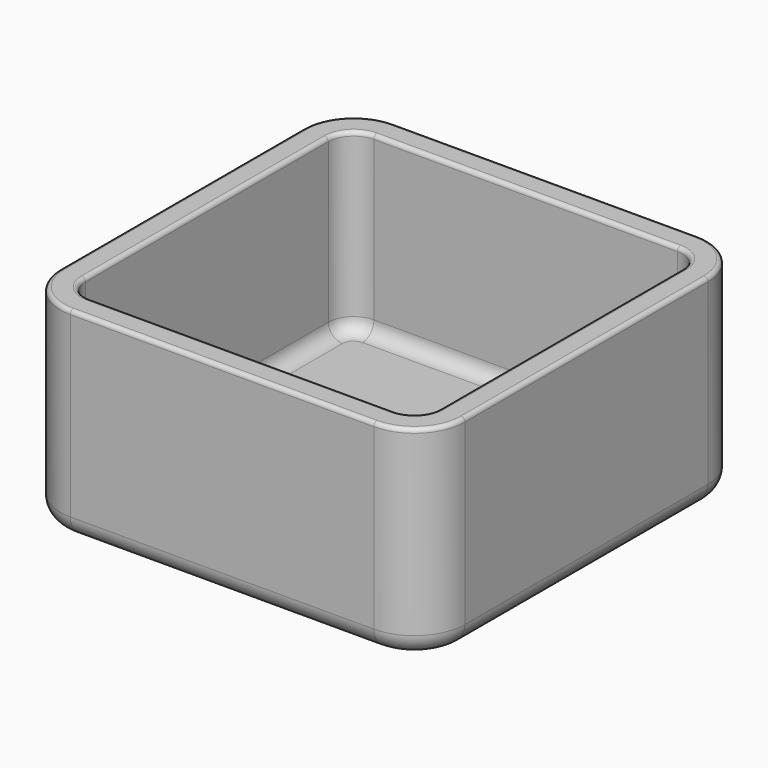
from build123d import *

# Parameters (mm, degrees)
F1_DEPTH = 25.4
F3_DEPTH = 22.225
F4_R     = 2.54
F5_R     = 1.778
F6_R     = 0.508


with BuildPart() as f1:
    # F0 (on Top) → F1 (new body)
    with BuildSketch(Plane.XY):
        with BuildLine():
            ThreePointArc((25.4, 22.2595424831), (23.5401280605, 26.7496705436), (19.05, 28.6095424831))
            Line((19.05, 28.6095424831), (-19.05, 28.6095424831))
            ThreePointArc((-19.05, 28.6095424831), (-23.5401280605, 26.7496705436), (-25.4, 22.2595424831))
            Line((-25.4, 22.2595424831), (-25.4, -15.8404575169))
            ThreePointArc((-25.4, -15.8404575169), (-23.5401280605, -20.3305855774), (-19.05, -22.1904575169))
            Line((-19.05, -22.1904575169), (19.05, -22.1904575169))
            ThreePointArc((19.05, -22.1904575169), (23.5401280605, -20.3305855774), (25.4, -15.8404575169))
            Line((25.4, -15.8404575169), (25.4, 22.2595424831))
        make_face()
    extrude(amount=F1_DEPTH)

    # F2 (on face) → F3 (cut)
    with BuildSketch(Plane.XY.offset(25.4)):
        with BuildLine():
            Line((19.05, 25.4345424831), (-19.05, 25.4345424831))
            ThreePointArc((-19.05, 25.4345424831), (-21.2950640303, 24.5046065134), (-22.225, 22.2595424831))
            Line((-22.225, 22.2595424831), (-22.225, -15.8404575169))
            ThreePointArc((-22.225, -15.8404575169), (-21.2950640303, -18.0855215472), (-19.05, -19.0154575169))
            Line((-19.05, -19.0154575169), (19.05, -19.0154575169))
            ThreePointArc((19.05, -19.0154575169), (21.2950640303, -18.0855215472), (22.225, -15.8404575169))
            Line((22.225, -15.8404575169), (22.225, 22.2595424831))
            ThreePointArc((22.225, 22.2595424831), (21.2950640303, 24.5046065134), (19.05, 25.4345424831))
        make_face()
    extrude(amount=-F3_DEPTH, mode=Mode.SUBTRACT)

    # F4
    f4_edges = [f1.edges().sort_by_distance(p)[0] for p in [
        (23.540128, -20.330586, 0),
        (25.4, 3.209542, 0),
        (23.540128, 26.749671, 0),
        (0, 28.609542, 0),
        (-23.540128, 26.749671, 0),
        (-25.4, 3.209542, 0),
        (-23.540128, -20.330586, 0),
        (0, -22.190458, 0),
    ]]
    fillet(f4_edges, radius=F4_R)

    # F5
    f5_edges = [f1.edges().sort_by_distance(p)[0] for p in [
        (0, 25.434542, 3.175),
        (-21.295064, 24.504607, 3.175),
        (-22.225, 3.209542, 3.175),
        (-21.295064, -18.085522, 3.175),
        (0, -19.015458, 3.175),
        (21.295064, -18.085522, 3.175),
        (22.225, 3.209542, 3.175),
        (21.295064, 24.504607, 3.175),
    ]]
    fillet(f5_edges, radius=F5_R)

    # F6
    f6_edges = [f1.edges().sort_by_distance(p)[0] for p in [
        (23.540128, -20.330586, 25.4),
        (0, -22.190458, 25.4),
        (25.4, 3.209542, 25.4),
        (-23.540128, -20.330586, 25.4),
        (23.540128, 26.749671, 25.4),
        (-25.4, 3.209542, 25.4),
        (0, 28.609542, 25.4),
        (-23.540128, 26.749671, 25.4),
        (0, 25.434542, 25.4),
        (-21.295064, 24.504607, 25.4),
        (-22.225, 3.209542, 25.4),
        (-21.295064, -18.085522, 25.4),
        (0, -19.015458, 25.4),
        (21.295064, -18.085522, 25.4),
        (22.225, 3.209542, 25.4),
        (21.295064, 24.504607, 25.4),
    ]]
    fillet(f6_edges, radius=F6_R)


solid = f1.part
